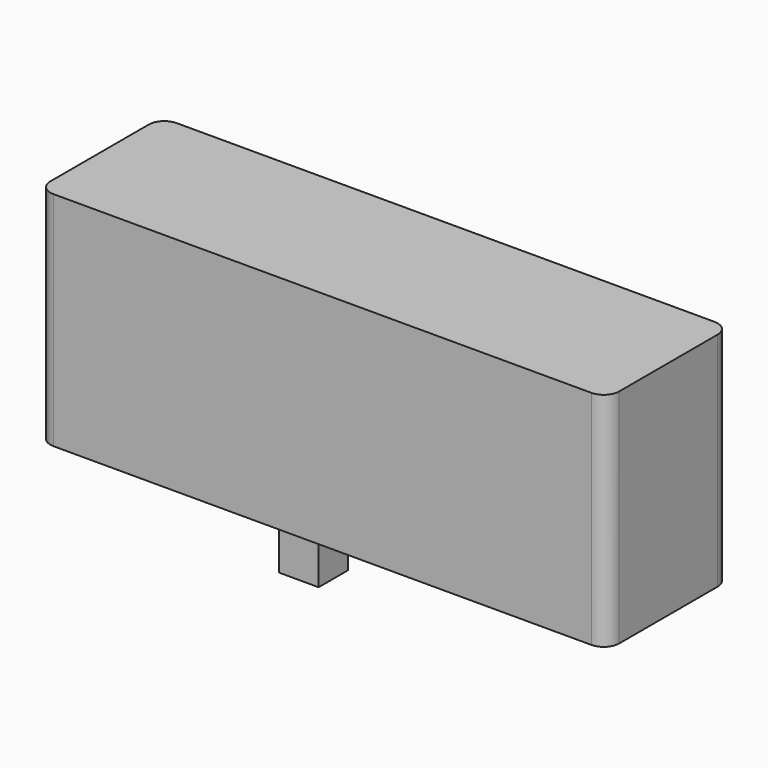
from build123d import *

# Parameters (mm, degrees)
F0_W     = 187.772378
F0_H     = 73.266328
F1_DEPTH = 25.4
F2_R     = 5.08
F3_W     = 13.028179
F3_H     = 12.178514
F4_DEPTH = 25.4


with BuildPart() as f1:
    # F0 (on Front) → F1 (new body, symmetric)
    with BuildSketch(Plane.XZ):
        Rectangle(F0_W, F0_H)
    extrude(amount=F1_DEPTH, both=True)

    # F2
    f2_edges = [f1.edges().sort_by_distance(p)[0] for p in [
        (93.886189, -25.4, 0),
        (93.886189, 25.4, 0),
        (-93.886189, -25.4, 0),
        (-93.886189, 25.4, 0),
    ]]
    fillet(f2_edges, radius=F2_R)

    # F3 (on face) → F4 (join)
    with BuildSketch(Plane(origin=(0, 0, -36.633164), x_dir=(1, 0, 0), z_dir=(0, 0, -1))):
        with Locations((-23.224139, 0)):
            Rectangle(F3_W, F3_H)
    extrude(amount=F4_DEPTH)


solid = f1.part
